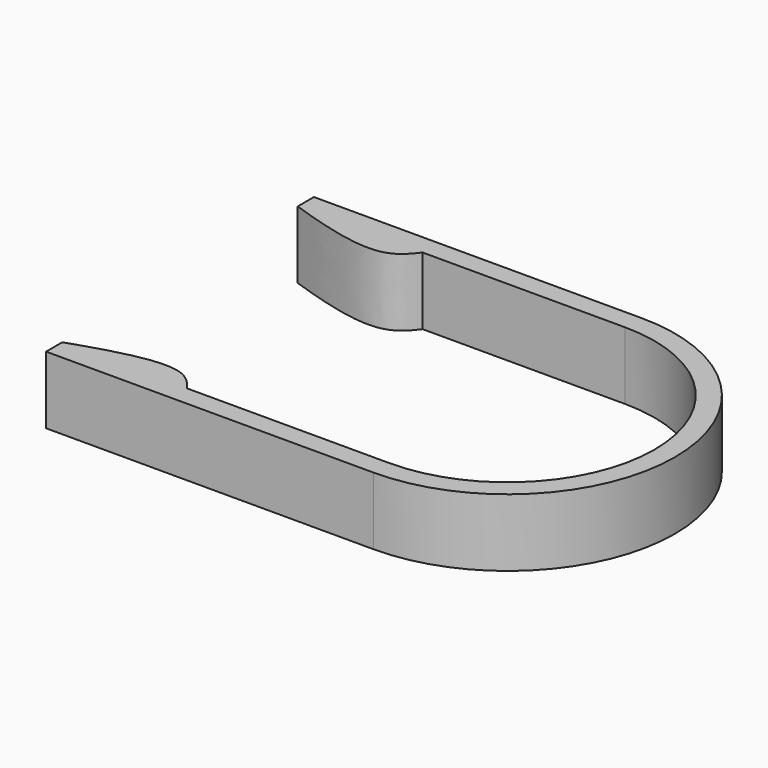
from build123d import *

# Parameters (mm, degrees)
F1_DEPTH = 10


with BuildPart() as f1:
    # F0 (on Top) → F1 (new body)
    with BuildSketch(Plane.XY):
        with BuildLine():
            Line((30, -21.8), (0, -21.8))
            add(Edge.make_bspline(
                [(0, -21.8), (-1.6334013165, -19.5362873508), (-5.3511473255, -17.9243908717), (-12.5395497227, -19.7618053971), (-18.5, -21.8)],
                knots=[0, 0, 0, 0, 0.3971734047, 1, 1, 1, 1], degree=3))
            Line((-18.5, -21.8), (-18.5, -24.8))
            Line((-18.5, -24.8), (0, -24.8))
            Line((0, -24.8), (30.0251226872, -24.8))
            ThreePointArc((30.0251226872, -24.8), (54.8251226872, 0), (30.0251226872, 24.8))
            Line((30.0251226872, 24.8), (0, 24.8))
            Line((0, 24.8), (-18.5, 24.8))
            Line((-18.5, 24.8), (-18.5, 21.8))
            add(Edge.make_bspline(
                [(0, 21.8), (-1.6334013165, 19.5362873508), (-5.3511473255, 17.9243908717), (-12.5395497227, 19.7618053971), (-18.5, 21.8)],
                knots=[0, 0, 0, 0, 0.3971734047, 1, 1, 1, 1], degree=3))
            Line((0, 21.8), (30, 21.8))
            ThreePointArc((30, 21.8), (51.8, 0), (30, -21.8))
        make_face()
    extrude(amount=F1_DEPTH)


solid = f1.part
